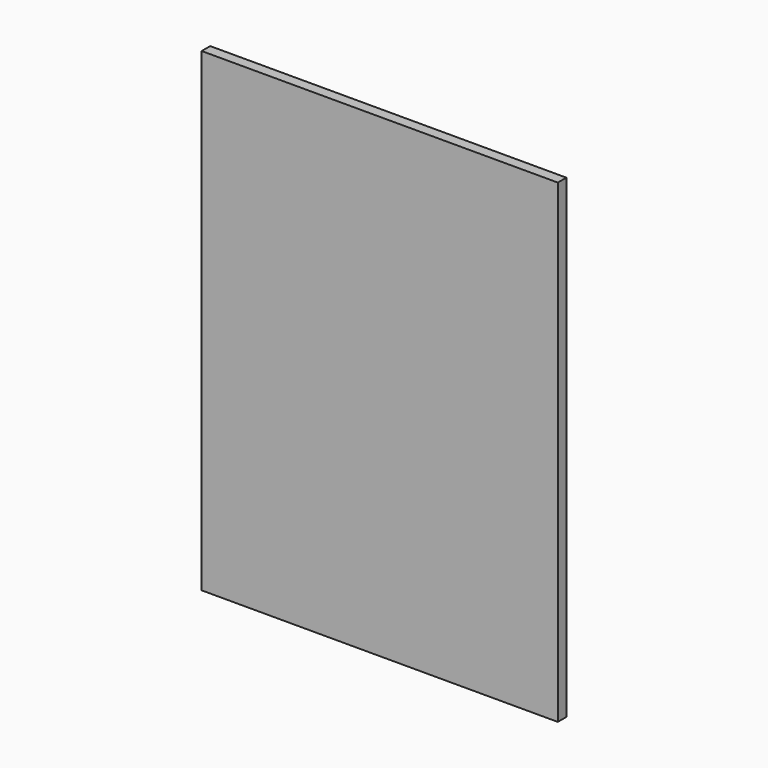
from build123d import *

# Parameters (mm, degrees)
SKETCH_W  = 600
SKETCH_H  = 800
PAD_DEPTH = 18


with BuildPart() as part:
    # Sketch → Pad (new body)
    with BuildSketch(Plane.XZ):
        with Locations((-300, 400)):
            Rectangle(SKETCH_W, SKETCH_H)
    extrude(amount=PAD_DEPTH)


solid = part.part
